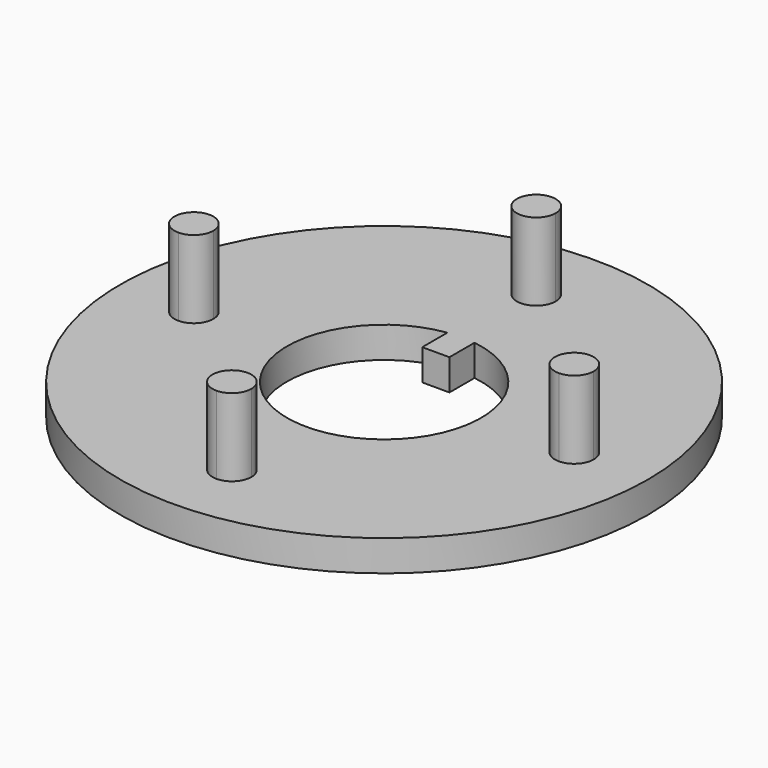
from build123d import *

# Parameters (mm, degrees)
F2_W      = 27
F2_H      = 2.5
F3_DEPTH  = 2
F4_W      = 2.5
F4_H      = 27
F5_DEPTH  = 2
F7_DEPTH  = 5
F8_R      = 17
F9_DEPTH  = 2
F10_R     = 6.25
F11_DEPTH = 2
F12_W     = 1.75
F12_H     = 4.1666666667
F13_DEPTH = 2


with BuildPart() as f3:
    # F2 (on Top) → F3 (new body)
    with BuildSketch(Plane.XY):
        Rectangle(F2_W, F2_H)
    extrude(amount=F3_DEPTH)

    # F4 (on Top) → F5 (join)
    with BuildSketch(Plane.XY):
        Rectangle(F4_W, F4_H)
    extrude(amount=F5_DEPTH)

    # F6 (on face) → F7 (join)
    with BuildSketch(Plane.XY.offset(2)):
        with BuildLine():
            ThreePointArc((-12.25, -1.25), (-11.3661165235, -0.8838834765), (-11, 0))
            ThreePointArc((-11, 0), (-11.3661165235, 0.8838834765), (-12.25, 1.25))
            ThreePointArc((-12.25, 1.25), (-13.1338834765, 0.8838834765), (-13.5, 0))
            ThreePointArc((-13.5, 0), (-13.1338834765, -0.8838834765), (-12.25, -1.25))
        make_face()
        with BuildLine():
            ThreePointArc((0, 13.5), (-0.8838834765, 13.1338834765), (-1.25, 12.25))
            ThreePointArc((-1.25, 12.25), (0, 11), (1.25, 12.25))
            ThreePointArc((1.25, 12.25), (0.8838834765, 13.1338834765), (0, 13.5))
        make_face()
        with BuildLine():
            ThreePointArc((13.5, 0), (13.1338834765, 0.8838834765), (12.25, 1.25))
            ThreePointArc((12.25, 1.25), (11, 0), (12.25, -1.25))
            ThreePointArc((12.25, -1.25), (13.1338834765, -0.8838834765), (13.5, 0))
        make_face()
        with BuildLine():
            ThreePointArc((1.25, -12.25), (0, -11), (-1.25, -12.25))
            ThreePointArc((-1.25, -12.25), (-0.8838834765, -13.1338834765), (0, -13.5))
            ThreePointArc((0, -13.5), (0.8838834765, -13.1338834765), (1.25, -12.25))
        make_face()
    extrude(amount=F7_DEPTH)

    # F8 (on Top) → F9 (join)
    with BuildSketch(Plane.XY):
        Circle(F8_R)
    extrude(amount=F9_DEPTH)

    # F10 (on face) → F11 (cut, through all)
    with BuildSketch(Plane.XY.offset(2)):
        Circle(F10_R)
    extrude(amount=-F11_DEPTH, mode=Mode.SUBTRACT)

    # F12 (on Top) → F13 (join)
    with BuildSketch(Plane.XY):
        with Locations((0, 6.25)):
            Rectangle(F12_W, F12_H)
    extrude(amount=F13_DEPTH)


solid = f3.part
